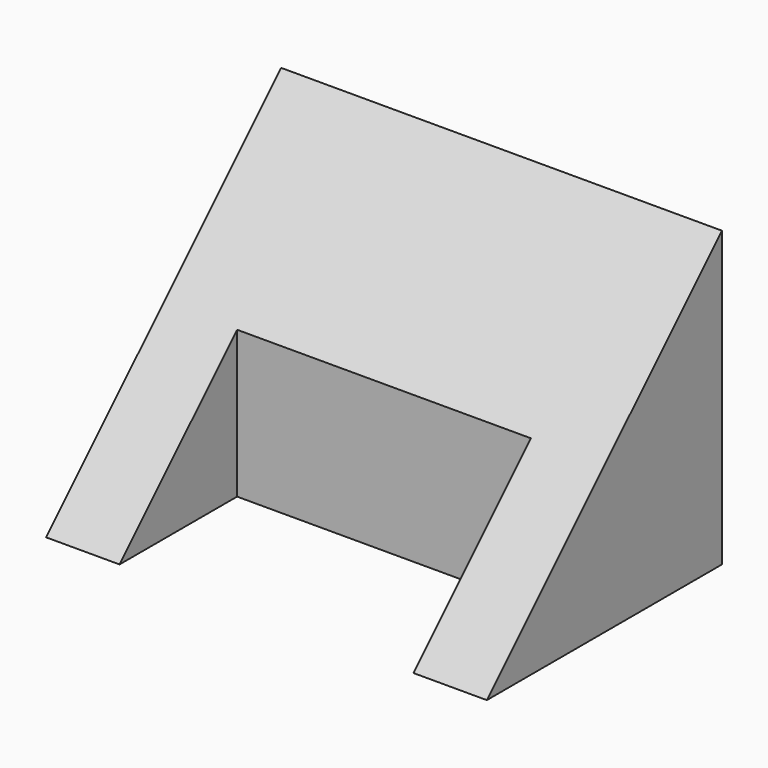
from build123d import *

# Parameters (mm, degrees)
F1_DEPTH = 38.1
F2_START = -6.35
F2_DEPTH = 25.4


with BuildPart() as f1:
    # F0 (on Right) → F1 (new body)
    with BuildSketch(Plane.YZ):
        Polygon((6.5743439748, 4.9772951752), (-6.1256560252, -7.7227048248), (6.5743439748, -7.7227048248), align=None)
        Polygon((6.5743439748, 4.9772951752), (6.5743439748, -7.7227048248), (19.2743439748, -7.7227048248), (19.2743439748, 17.6772951752), align=None)
    extrude(amount=-F1_DEPTH)

    # F0 (on Right) → F2 (cut)
    with BuildSketch(Plane.YZ.offset(F2_START)):
        Polygon((6.5743439748, 4.9772951752), (-6.1256560252, -7.7227048248), (6.5743439748, -7.7227048248), align=None)
    extrude(amount=-F2_DEPTH, mode=Mode.SUBTRACT)


solid = f1.part
